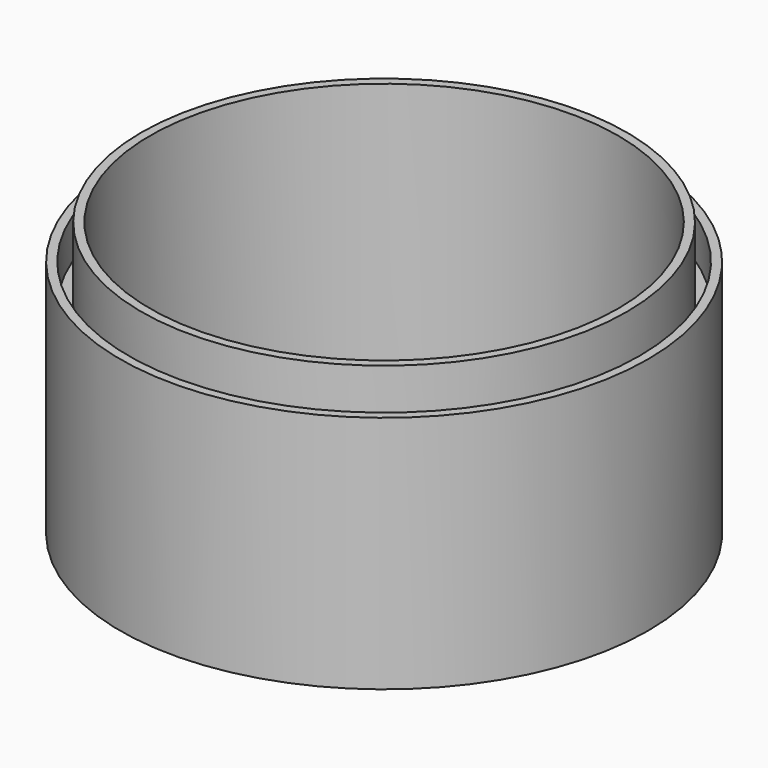
from build123d import *

# Parameters (mm, degrees)
SKETCH_R   = 53
SKETCH_R_2 = 3
PAD_DEPTH  = 5


with BuildPart() as part:
    # Sketch → Pad (new body)
    with BuildSketch(Plane.XY):
        Circle(SKETCH_R)
        Circle(SKETCH_R_2, mode=Mode.SUBTRACT)
    extrude(amount=PAD_DEPTH)

    # Sketch001 → Revolution (revolve)
    with BuildSketch(Plane.XZ):
        Polygon((53, 5), (47, 5), (47, 55), (48.75, 55), (48.75, 40), (51.25, 40), (51.25, 48), (53, 48), align=None)
    revolve(axis=Axis((0, 0, 0), (0, 0, 1)))


solid = part.part
